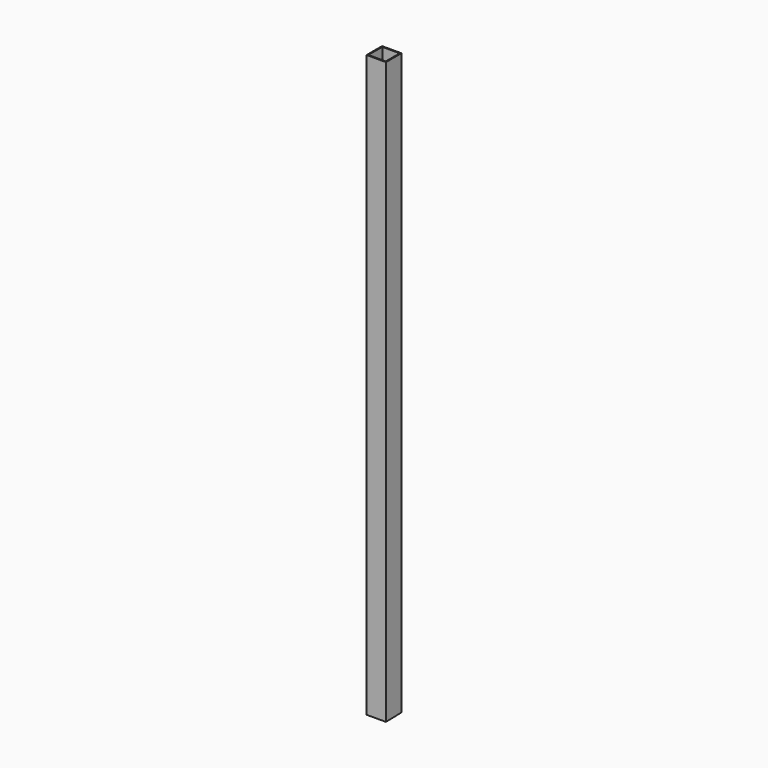
from build123d import *

# Parameters (mm, degrees)
F1_DEPTH = 25.4
F2_T     = -2.54


with BuildPart() as f1:
    # F0 (on Right) → F1 (new body, symmetric)
    with BuildSketch(Plane.YZ):
        Polygon((50.788000654, -803.0827707632), (50.788000654, 719.8131506325), (0, 719.8131506325), (0, -804.1868493675), align=None)
    extrude(amount=F1_DEPTH, both=True)

    # F2
    f2_openings = [f1.faces().sort_by_distance(p)[0] for p in [
        (0, 25.394, -803.63481),
        (0, 25.394, 719.813151),
    ]]
    offset(amount=F2_T, openings=f2_openings)


solid = f1.part
